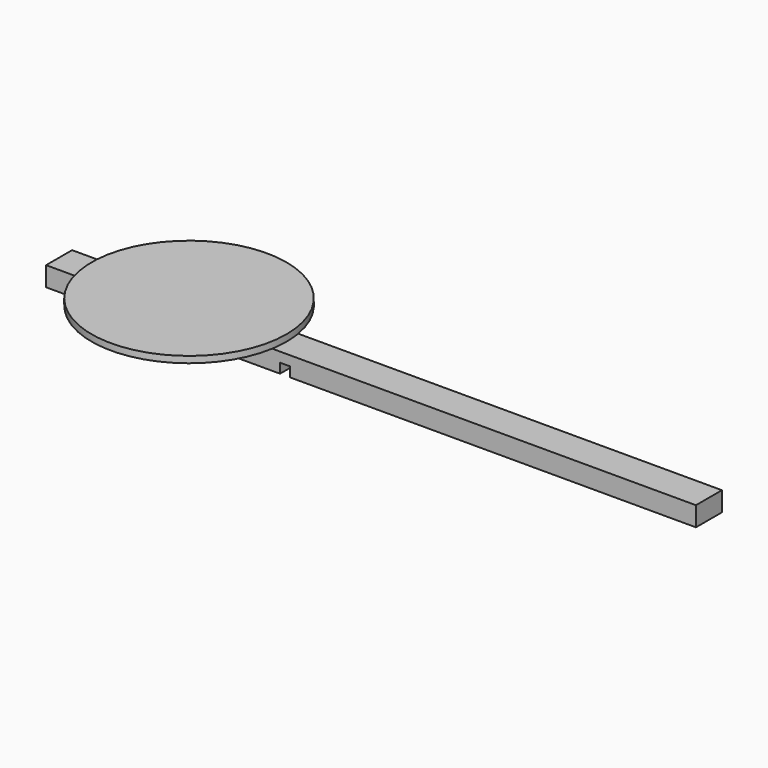
from build123d import *

# Parameters (mm, degrees)
F0_W     = 500
F0_H     = 25
F1_DEPTH = 15
F2_R     = 75
F3_DEPTH = 5
F4_W     = 7.5
F4_H     = 7.5
F5_DEPTH = 12.5


with BuildPart() as f1:
    # F0 (on Top) → F1 (new body)
    with BuildSketch(Plane.XY):
        with Locations((-250, 0)):
            Rectangle(F0_W, F0_H)
    extrude(amount=-F1_DEPTH)

    # F2 (on Top) → F3 (join)
    with BuildSketch(Plane.XY):
        with Locations((-400, 0)):
            Circle(F2_R)
    extrude(amount=F3_DEPTH)

    # F4 (on Front) → F5 (cut, symmetric)
    with BuildSketch(Plane.XZ):
        with Locations((-316.25, -11.25)):
            Rectangle(F4_W, F4_H)
    extrude(amount=F5_DEPTH, both=True, mode=Mode.SUBTRACT)


solid = f1.part
